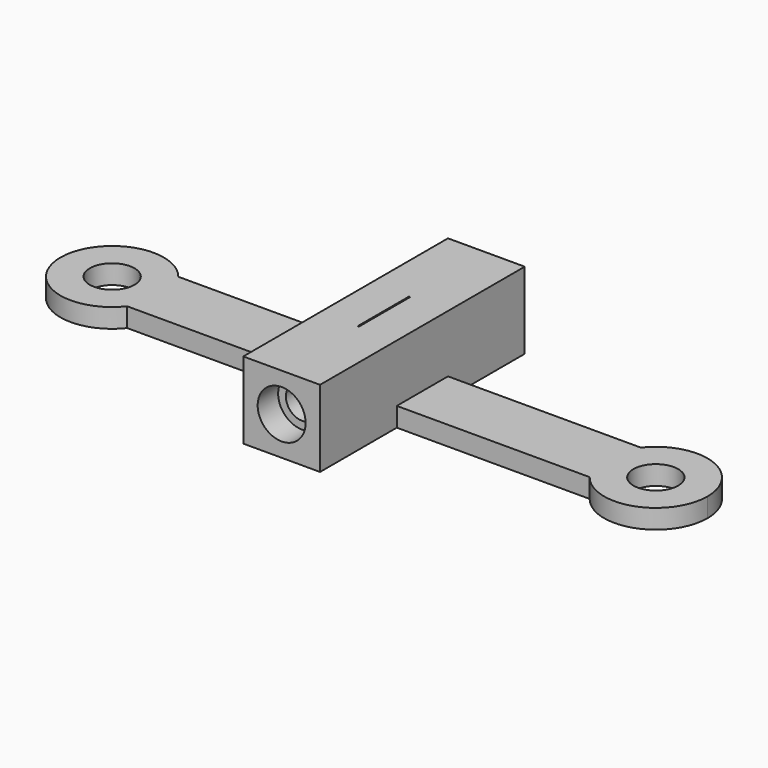
from build123d import *

# Parameters (mm, degrees)
F1_DEPTH  = 3
F3_D      = 7
F4_R      = 0.2
F5_DEPTH  = 12.5
F6_W      = 12
F6_H      = 40
F7_DEPTH  = 12
F8_W      = 0.2
F8_H      = 10
F9_DEPTH  = 12
F10_R     = 0.25
F11_DEPTH = 25
F12_R     = 1.9
F13_DEPTH = 14
F14_R     = 2.5392284098
F15_DEPTH = 7.5
F16_R     = 3.75
F17_DEPTH = 4


with BuildPart() as f1:
    # F0 (on Top) → F1 (new body)
    with BuildSketch(Plane.XY):
        with BuildLine():
            Line((42.5, 5), (42.5, -5))
            Line((42.5, -5), (36.1522351233, -5))
            ThreePointArc((36.1522351233, -5), (45.1458596679, -7.635020992), (50.5804776424, 0))
            ThreePointArc((50.5804776424, 0), (45.1458596679, 7.635020992), (36.1522351233, 5))
            Line((36.1522351233, 5), (42.5, 5))
        make_face()
        with BuildLine():
            ThreePointArc((-36.1522351233, 5), (-50.5804776424, 0), (-36.1522351233, -5))
            Line((-36.1522351233, -5), (-42.5, -5))
            Line((-42.5, -5), (-42.5, 5))
            Line((-42.5, 5), (-36.1522351233, 5))
        make_face()
        with BuildLine():
            Line((36.1522351233, -5), (42.5, -5))
            Line((42.5, -5), (42.5, 5))
            Line((42.5, 5), (36.1522351233, 5))
            ThreePointArc((36.1522351233, 5), (34.4195223576, 0), (36.1522351233, -5))
        make_face()
        with BuildLine():
            Line((-36.1522351233, -5), (36.1522351233, -5))
            ThreePointArc((36.1522351233, -5), (34.4195223576, 0), (36.1522351233, 5))
            Line((36.1522351233, 5), (-36.1522351233, 5))
            ThreePointArc((-36.1522351233, 5), (-34.864979008, 2.6458596679), (-34.4195223576, 0))
            ThreePointArc((-34.4195223576, 0), (-34.864979008, -2.6458596679), (-36.1522351233, -5))
        make_face()
        with BuildLine():
            Line((-42.5, -5), (-36.1522351233, -5))
            ThreePointArc((-36.1522351233, -5), (-34.864979008, -2.6458596679), (-34.4195223576, 0))
            ThreePointArc((-34.4195223576, 0), (-34.864979008, 2.6458596679), (-36.1522351233, 5))
            Line((-36.1522351233, 5), (-42.5, 5))
            Line((-42.5, 5), (-42.5, -5))
        make_face()
    extrude(amount=F1_DEPTH)

    # F3 (through all)
    with Locations(Plane.XY.offset(3)):
        with Locations((-42.5, 0), (42.5, 0)):
            Hole(F3_D / 2)

    # F4 (on Front) → F5 (cut, symmetric)
    with BuildSketch(Plane.XZ):
        with Locations((0, 21.0996698588)):
            Circle(F4_R)
    extrude(amount=F5_DEPTH, both=True, mode=Mode.SUBTRACT)

    # F6 (on Top) → F7 (join)
    with BuildSketch(Plane.XY):
        Rectangle(F6_W, F6_H)
    extrude(amount=F7_DEPTH)

    # F8 (on Top) → F9 (cut)
    with BuildSketch(Plane.XY):
        Rectangle(F8_W, F8_H)
    extrude(amount=F9_DEPTH, mode=Mode.SUBTRACT)

    # F10 (on Front) → F11 (cut, symmetric)
    with BuildSketch(Plane.XZ):
        with Locations((0, 6)):
            Circle(F10_R)
    extrude(amount=F11_DEPTH, both=True, mode=Mode.SUBTRACT)

    # F12 (on face) → F13 (cut)
    with BuildSketch(Plane.XZ.offset(20)):
        with Locations((0, 6)):
            Circle(F12_R)
    extrude(amount=-F13_DEPTH, mode=Mode.SUBTRACT)

    # F14 (on face) → F15 (cut)
    with BuildSketch(Plane.XZ.offset(20)):
        with Locations((0, 6)):
            Circle(F14_R)
    extrude(amount=-F15_DEPTH, mode=Mode.SUBTRACT)

    # F16 (on face) → F17 (cut)
    with BuildSketch(Plane.XZ.offset(20)):
        with Locations((0, 6)):
            Circle(F16_R)
    extrude(amount=-F17_DEPTH, mode=Mode.SUBTRACT)


solid = f1.part
